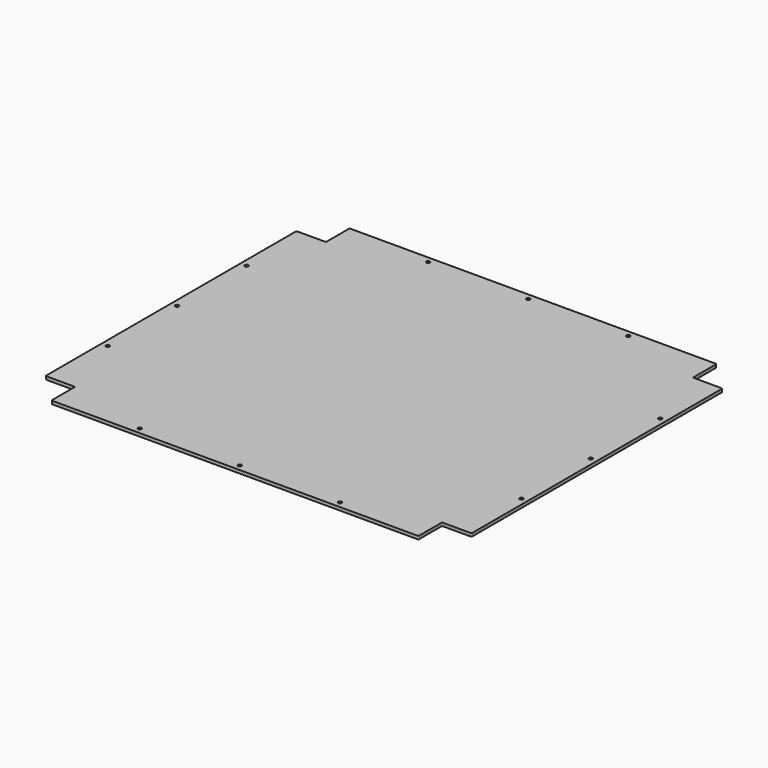
from build123d import *

# Parameters (mm, degrees)
SKETCH_R     = 3.4925
SKETCH_R_2   = 3.3782
SKETCH_R_3   = 2.6035
PAD_DEPTH    = 6
SKETCH001_R  = 1.8669
PAD001_DEPTH = 0.0508
SKETCH002_R  = 3.3782
PAD002_DEPTH = 6


with BuildPart() as tunnelmountplatebody:
    # Sketch → Pad (new body)
    with BuildSketch(Plane.XY):
        with BuildLine():
            Line((-347.25, -354.6), (347.25, -354.6))
            ThreePointArc((347.25, -354.6), (348.664214, -354.014214), (349.25, -352.6))
            Line((349.25, -352.6), (349.25, -300.45))
            ThreePointArc((351.25, -298.45), (349.835786, -299.035786), (349.25, -300.45))
            Line((351.25, -298.45), (403.4, -298.45))
            ThreePointArc((403.4, -298.45), (404.814214, -297.864214), (405.4, -296.45))
            Line((405.4, 296.45), (405.4, -296.45))
            ThreePointArc((405.4, 296.45), (404.814214, 297.864214), (403.4, 298.45))
            Line((351.25, 298.45), (403.4, 298.45))
            ThreePointArc((349.25, 300.45), (349.835786, 299.035786), (351.25, 298.45))
            Line((349.25, 352.6), (349.25, 300.45))
            ThreePointArc((349.25, 352.6), (348.664214, 354.014214), (347.25, 354.6))
            Line((-347.25, 354.6), (347.25, 354.6))
            ThreePointArc((-347.25, 354.6), (-348.664214, 354.014214), (-349.25, 352.6))
            Line((-349.25, 300.45), (-349.25, 352.6))
            ThreePointArc((-351.25, 298.45), (-349.835786, 299.035786), (-349.25, 300.45))
            Line((-403.4, 298.45), (-351.25, 298.45))
            ThreePointArc((-403.4, 298.45), (-404.814214, 297.864214), (-405.4, 296.45))
            Line((-405.4, 296.45), (-405.4, -296.45))
            ThreePointArc((-405.4, -296.45), (-404.814214, -297.864214), (-403.4, -298.45))
            Line((-351.25, -298.45), (-403.4, -298.45))
            ThreePointArc((-349.25, -300.45), (-349.835786, -299.035786), (-351.25, -298.45))
            Line((-349.25, -352.6), (-349.25, -300.45))
            ThreePointArc((-349.25, -352.6), (-348.664214, -354.014214), (-347.25, -354.6))
        make_face()
        with Locations((-355.6, 272.925)):
            Circle(SKETCH_R, mode=Mode.SUBTRACT)
        with Locations((-355.6, 120.525)):
            Circle(SKETCH_R, mode=Mode.SUBTRACT)
        with Locations((355.6, 272.925)):
            Circle(SKETCH_R, mode=Mode.SUBTRACT)
        with Locations((355.6, 120.525)):
            Circle(SKETCH_R, mode=Mode.SUBTRACT)
        with Locations((-355.6, 76.2)):
            Circle(SKETCH_R, mode=Mode.SUBTRACT)
        with Locations((355.6, 76.2)):
            Circle(SKETCH_R, mode=Mode.SUBTRACT)
        with Locations((-355.6, -76.2)):
            Circle(SKETCH_R, mode=Mode.SUBTRACT)
        with Locations((355.6, -76.2)):
            Circle(SKETCH_R, mode=Mode.SUBTRACT)
        with Locations((-355.6, -120.525)):
            Circle(SKETCH_R, mode=Mode.SUBTRACT)
        with Locations((355.6, -120.525)):
            Circle(SKETCH_R, mode=Mode.SUBTRACT)
        with Locations((-355.6, -272.925)):
            Circle(SKETCH_R, mode=Mode.SUBTRACT)
        with Locations((355.6, -272.925)):
            Circle(SKETCH_R, mode=Mode.SUBTRACT)
        with Locations((-393.7, -165.1)):
            Circle(SKETCH_R_2, mode=Mode.SUBTRACT)
        with Locations((-393.7, 0)):
            Circle(SKETCH_R_2, mode=Mode.SUBTRACT)
        with Locations((-393.7, 165.1)):
            Circle(SKETCH_R_2, mode=Mode.SUBTRACT)
        with Locations((-190.5, 342.9)):
            Circle(SKETCH_R_2, mode=Mode.SUBTRACT)
        with Locations((0, 342.9)):
            Circle(SKETCH_R_2, mode=Mode.SUBTRACT)
        with Locations((190.5, 342.9)):
            Circle(SKETCH_R_2, mode=Mode.SUBTRACT)
        with Locations((393.7, 165.1)):
            Circle(SKETCH_R_2, mode=Mode.SUBTRACT)
        with Locations((393.7, 0)):
            Circle(SKETCH_R_2, mode=Mode.SUBTRACT)
        with Locations((393.7, -165.1)):
            Circle(SKETCH_R_2, mode=Mode.SUBTRACT)
        with Locations((190.5, -342.9)):
            Circle(SKETCH_R_2, mode=Mode.SUBTRACT)
        with Locations((0, -342.9)):
            Circle(SKETCH_R_2, mode=Mode.SUBTRACT)
        with Locations((-190.5, -342.9)):
            Circle(SKETCH_R_2, mode=Mode.SUBTRACT)
        with Locations((-210, 261.725)):
            Circle(SKETCH_R_3, mode=Mode.SUBTRACT)
        with Locations((-210, 131.725)):
            Circle(SKETCH_R_3, mode=Mode.SUBTRACT)
        with Locations((210, 261.725)):
            Circle(SKETCH_R_3, mode=Mode.SUBTRACT)
        with Locations((210, 131.725)):
            Circle(SKETCH_R_3, mode=Mode.SUBTRACT)
        with Locations((-210, 65)):
            Circle(SKETCH_R_3, mode=Mode.SUBTRACT)
        with Locations((-210, -65)):
            Circle(SKETCH_R_3, mode=Mode.SUBTRACT)
        with Locations((210, 65)):
            Circle(SKETCH_R_3, mode=Mode.SUBTRACT)
        with Locations((210, -65)):
            Circle(SKETCH_R_3, mode=Mode.SUBTRACT)
        with Locations((-210, -131.725)):
            Circle(SKETCH_R_3, mode=Mode.SUBTRACT)
        with Locations((-210, -261.725)):
            Circle(SKETCH_R_3, mode=Mode.SUBTRACT)
        with Locations((210, -261.725)):
            Circle(SKETCH_R_3, mode=Mode.SUBTRACT)
        with Locations((210, -131.725)):
            Circle(SKETCH_R_3, mode=Mode.SUBTRACT)
        with BuildLine():
            ThreePointArc((-346.25, 221.725), (-347.664214, 221.139214), (-348.25, 219.725))
            Line((-348.25, 173.725), (-348.25, 219.725))
            ThreePointArc((-348.25, 173.725), (-347.664214, 172.310786), (-346.25, 171.725))
            Line((-300.25, 171.725), (-346.25, 171.725))
            ThreePointArc((-300.25, 171.725), (-298.835786, 172.310786), (-298.25, 173.725))
            Line((-298.25, 219.725), (-298.25, 173.725))
            ThreePointArc((-298.25, 219.725), (-298.835786, 221.139214), (-300.25, 221.725))
            Line((-346.25, 221.725), (-300.25, 221.725))
        make_face(mode=Mode.SUBTRACT)
        with BuildLine():
            ThreePointArc((-346.25, 25), (-347.664214, 24.414214), (-348.25, 23))
            Line((-348.25, -23), (-348.25, 23))
            ThreePointArc((-348.25, -23), (-347.664214, -24.414214), (-346.25, -25))
            Line((-300.25, -25), (-346.25, -25))
            ThreePointArc((-300.25, -25), (-298.835786, -24.414214), (-298.25, -23))
            Line((-298.25, 23), (-298.25, -23))
            ThreePointArc((-298.25, 23), (-298.835786, 24.414214), (-300.25, 25))
            Line((-346.25, 25), (-300.25, 25))
        make_face(mode=Mode.SUBTRACT)
        with BuildLine():
            ThreePointArc((-346.25, -171.725), (-347.664214, -172.310786), (-348.25, -173.725))
            Line((-348.25, -219.725), (-348.25, -173.725))
            ThreePointArc((-348.25, -219.725), (-347.664214, -221.139214), (-346.25, -221.725))
            Line((-300.25, -221.725), (-346.25, -221.725))
            ThreePointArc((-300.25, -221.725), (-298.835786, -221.139214), (-298.25, -219.725))
            Line((-298.25, -173.725), (-298.25, -219.725))
            ThreePointArc((-298.25, -173.725), (-298.835786, -172.310786), (-300.25, -171.725))
            Line((-346.25, -171.725), (-300.25, -171.725))
        make_face(mode=Mode.SUBTRACT)
        with BuildLine():
            ThreePointArc((300.25, 221.725), (298.835786, 221.139214), (298.25, 219.725))
            Line((298.25, 173.725), (298.25, 219.725))
            ThreePointArc((298.25, 173.725), (298.835786, 172.310786), (300.25, 171.725))
            Line((346.25, 171.725), (300.25, 171.725))
            ThreePointArc((346.25, 171.725), (347.664214, 172.310786), (348.25, 173.725))
            Line((348.25, 219.725), (348.25, 173.725))
            ThreePointArc((348.25, 219.725), (347.664214, 221.139214), (346.25, 221.725))
            Line((300.25, 221.725), (346.25, 221.725))
        make_face(mode=Mode.SUBTRACT)
        with BuildLine():
            ThreePointArc((300.25, 25), (298.835786, 24.414214), (298.25, 23))
            Line((298.25, -23), (298.25, 23))
            ThreePointArc((298.25, -23), (298.835786, -24.414214), (300.25, -25))
            Line((346.25, -25), (300.25, -25))
            ThreePointArc((346.25, -25), (347.664214, -24.414214), (348.25, -23))
            Line((348.25, 23), (348.25, -23))
            ThreePointArc((348.25, 23), (347.664214, 24.414214), (346.25, 25))
            Line((300.25, 25), (346.25, 25))
        make_face(mode=Mode.SUBTRACT)
        with BuildLine():
            ThreePointArc((300.25, -171.725), (298.835786, -172.310786), (298.25, -173.725))
            Line((298.25, -219.725), (298.25, -173.725))
            ThreePointArc((298.25, -219.725), (298.835786, -221.139214), (300.25, -221.725))
            Line((346.25, -221.725), (300.25, -221.725))
            ThreePointArc((346.25, -221.725), (347.664214, -221.139214), (348.25, -219.725))
            Line((348.25, -173.725), (348.25, -219.725))
            ThreePointArc((348.25, -173.725), (347.664214, -172.310786), (346.25, -171.725))
            Line((300.25, -171.725), (346.25, -171.725))
        make_face(mode=Mode.SUBTRACT)
    extrude(amount=PAD_DEPTH)


with BuildPart() as diffuserbody:
    # Sketch001 → Pad001 (new body)
    with BuildSketch(Plane.XY):
        with BuildLine():
            ThreePointArc((-214, 70), (-214.707107, 69.707107), (-215, 69))
            Line((-215, -69), (-215, 69))
            ThreePointArc((-215, -69), (-214.707107, -69.707107), (-214, -70))
            Line((214, -70), (-214, -70))
            ThreePointArc((214, -70), (214.707107, -69.707107), (215, -69))
            Line((215, 69), (215, -69))
            ThreePointArc((215, 69), (214.707107, 69.707107), (214, 70))
            Line((-214, 70), (214, 70))
        make_face()
        with Locations((-210, 65)):
            Circle(SKETCH001_R, mode=Mode.SUBTRACT)
        with Locations((-210, -65)):
            Circle(SKETCH001_R, mode=Mode.SUBTRACT)
        with Locations((210, 65)):
            Circle(SKETCH001_R, mode=Mode.SUBTRACT)
        with Locations((210, -65)):
            Circle(SKETCH001_R, mode=Mode.SUBTRACT)
    extrude(amount=PAD001_DEPTH)


with BuildPart() as backlightmountplatebody:
    # Sketch002 → Pad002 (new body)
    with BuildSketch(Plane.XY):
        with BuildLine():
            Line((-347.25, -354.6), (347.25, -354.6))
            ThreePointArc((347.25, -354.6), (348.664214, -354.014214), (349.25, -352.6))
            Line((349.25, -352.6), (349.25, -300.45))
            ThreePointArc((351.25, -298.45), (349.835786, -299.035786), (349.25, -300.45))
            Line((351.25, -298.45), (403.4, -298.45))
            ThreePointArc((403.4, -298.45), (404.814214, -297.864214), (405.4, -296.45))
            Line((405.4, 296.45), (405.4, -296.45))
            ThreePointArc((405.4, 296.45), (404.814214, 297.864214), (403.4, 298.45))
            Line((351.25, 298.45), (403.4, 298.45))
            ThreePointArc((349.25, 300.45), (349.835786, 299.035786), (351.25, 298.45))
            Line((349.25, 352.6), (349.25, 300.45))
            ThreePointArc((349.25, 352.6), (348.664214, 354.014214), (347.25, 354.6))
            Line((-347.25, 354.6), (347.25, 354.6))
            ThreePointArc((-347.25, 354.6), (-348.664214, 354.014214), (-349.25, 352.6))
            Line((-349.25, 300.45), (-349.25, 352.6))
            ThreePointArc((-351.25, 298.45), (-349.835786, 299.035786), (-349.25, 300.45))
            Line((-403.4, 298.45), (-351.25, 298.45))
            ThreePointArc((-403.4, 298.45), (-404.814214, 297.864214), (-405.4, 296.45))
            Line((-405.4, 296.45), (-405.4, -296.45))
            ThreePointArc((-405.4, -296.45), (-404.814214, -297.864214), (-403.4, -298.45))
            Line((-351.25, -298.45), (-403.4, -298.45))
            ThreePointArc((-349.25, -300.45), (-349.835786, -299.035786), (-351.25, -298.45))
            Line((-349.25, -352.6), (-349.25, -300.45))
            ThreePointArc((-349.25, -352.6), (-348.664214, -354.014214), (-347.25, -354.6))
        make_face()
        with Locations((-393.7, -165.1)):
            Circle(SKETCH002_R, mode=Mode.SUBTRACT)
        with Locations((-393.7, 0)):
            Circle(SKETCH002_R, mode=Mode.SUBTRACT)
        with Locations((-393.7, 165.1)):
            Circle(SKETCH002_R, mode=Mode.SUBTRACT)
        with Locations((-190.5, 342.9)):
            Circle(SKETCH002_R, mode=Mode.SUBTRACT)
        with Locations((0, 342.9)):
            Circle(SKETCH002_R, mode=Mode.SUBTRACT)
        with Locations((190.5, 342.9)):
            Circle(SKETCH002_R, mode=Mode.SUBTRACT)
        with Locations((393.7, 165.1)):
            Circle(SKETCH002_R, mode=Mode.SUBTRACT)
        with Locations((393.7, 0)):
            Circle(SKETCH002_R, mode=Mode.SUBTRACT)
        with Locations((393.7, -165.1)):
            Circle(SKETCH002_R, mode=Mode.SUBTRACT)
        with Locations((190.5, -342.9)):
            Circle(SKETCH002_R, mode=Mode.SUBTRACT)
        with Locations((0, -342.9)):
            Circle(SKETCH002_R, mode=Mode.SUBTRACT)
        with Locations((-190.5, -342.9)):
            Circle(SKETCH002_R, mode=Mode.SUBTRACT)
    extrude(amount=PAD002_DEPTH)


solid = Compound([tunnelmountplatebody.part, diffuserbody.part, backlightmountplatebody.part])
